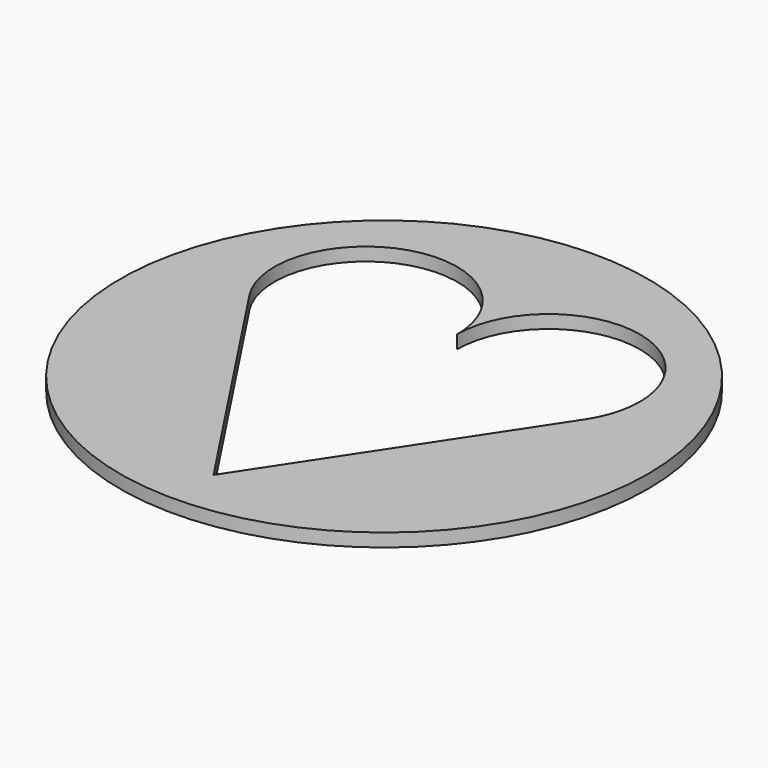
from build123d import *

# Parameters (mm, degrees)
F0_R     = 40
F1_DEPTH = 2
F3_DEPTH = 25


with BuildPart() as f1:
    # F0 (on Top) → F1 (new body)
    with BuildSketch(Plane.XY):
        Circle(F0_R)
    extrude(amount=F1_DEPTH)

    # F2 (on face) → F3 (cut)
    with BuildSketch(Plane.XY.offset(2)):
        with BuildLine():
            ThreePointArc((-25.405787, 6.224418), (-9.867491, 0.583944), (0, 13.846154))
            ThreePointArc((0, 13.846154), (-17.824817, 27.108364), (-25.405787, 6.224418))
        make_face()
        with BuildLine():
            ThreePointArc((25.405787, 6.224418), (9.867491, 0.583944), (0, 13.846154))
            ThreePointArc((0, 13.846154), (-9.867491, 0.583944), (-25.405787, 6.224418))
            Line((-25.405787, 6.224418), (0, -32.307692))
            Line((0, -32.307692), (25.405787, 6.224418))
        make_face()
        with BuildLine():
            ThreePointArc((27.692308, 13.846154), (13.846154, 27.692308), (0, 13.846154))
            ThreePointArc((0, 13.846154), (9.867491, 0.583944), (25.405787, 6.224418))
            ThreePointArc((25.405787, 6.224418), (27.108364, 9.867491), (27.692308, 13.846154))
        make_face()
    extrude(amount=-F3_DEPTH, mode=Mode.SUBTRACT)


solid = f1.part
